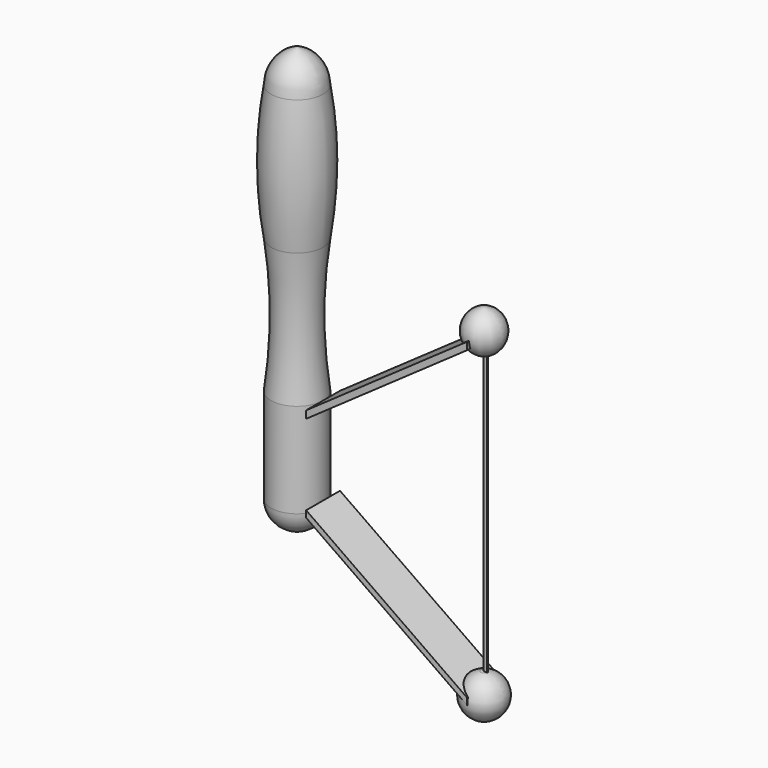
from build123d import *

# Parameters (mm, degrees)
F3_DEPTH = 0.1905
F4_DEPTH = 6.35


with BuildPart() as f1:
    # F0 (on Front) → F1 (revolve)
    with BuildSketch(Plane.XZ):
        Polygon((7.815314, -40.494292), (0, -40.494292), (0, -68.920434), (7.815314, -68.920434), (7.815314, -66.927714), (7.815314, -42.732979), align=None)
        with BuildLine():
            Line((7.815314, 0), (0, 0))
            Line((0, 0), (0, -40.494292))
            Line((0, -40.494292), (7.815314, -40.494292))
            ThreePointArc((7.815314, -40.494292), (6.404969, -20.247146), (7.815314, 0))
        make_face()
        with BuildLine():
            Line((0, 40.494292), (0, 0))
            Line((0, 0), (7.815314, 0))
            ThreePointArc((7.815314, 0), (9.456278, 20.247146), (7.815314, 40.494292))
            Line((7.815314, 40.494292), (0, 40.494292))
        make_face()
        with BuildLine():
            Line((0, 50.362954), (0, 40.494292))
            Line((0, 40.494292), (7.815314, 40.494292))
            ThreePointArc((7.815314, 40.494292), (5.596244, 46.76587), (0, 50.362954))
        make_face()
        with BuildLine():
            Line((7.815314, -68.920434), (0, -68.920434))
            Line((0, -68.920434), (0, -76.778069))
            ThreePointArc((0, -76.778069), (5.528816, -74.461679), (7.815314, -68.920434))
        make_face()
    revolve(axis=Axis((0, 0, 20.247146), (0, 0, 1)))


with BuildPart() as f2:
    # F0 (on Front) → F2 (revolve)
    with BuildSketch(Plane.XZ):
        with BuildLine():
            Line((56.163404, -100.781411), (56.163404, -102.774131))
            Line((56.163404, -102.774131), (56.163404, -108.946783))
            ThreePointArc((56.163404, -108.946783), (62.479059, -103.106412), (57.179164, -96.330828))
            ThreePointArc((57.179164, -96.330828), (56.672972, -96.268408), (56.163404, -96.246813))
            Line((56.163404, -96.246813), (56.163404, -100.781411))
        make_face()
        with BuildLine():
            Line((56.163404, 0), (56.163404, -6.640595))
            Line((56.163404, -6.640595), (56.163404, -8.879283))
            Line((56.163404, -8.879283), (56.163404, -12.640728))
            ThreePointArc((56.163404, -12.640728), (56.675003, -12.570025), (57.179164, -12.457981))
            ThreePointArc((57.179164, -12.457981), (61.879619, -5.80433), (56.163404, 0))
        make_face()
    revolve(axis=Axis((56.163404, 0, -102.596798), (0, 0, 1)))

    # F0 (on Front) → F3 (join, symmetric)
    with BuildSketch(Plane.XZ):
        with BuildLine():
            ThreePointArc((57.179164, -12.457981), (56.675003, -12.570025), (56.163404, -12.640728))
            Line((56.163404, -12.640728), (56.163404, -96.246813))
            ThreePointArc((56.163404, -96.246813), (56.672972, -96.268408), (57.179164, -96.330828))
            Line((57.179164, -96.330828), (57.179164, -12.457981))
        make_face()
    extrude(amount=F3_DEPTH, both=True)


with BuildPart() as f4:
    # F0 (on Front) → F4 (new body, symmetric)
    with BuildSketch(Plane.XZ):
        Polygon((56.163404, -6.640595), (7.815314, -40.494292), (7.815314, -42.732979), (56.163404, -8.879283), align=None)
        Polygon((7.815314, -66.927714), (7.815314, -68.920434), (56.163404, -102.774131), (56.163404, -100.781411), align=None)
    extrude(amount=F4_DEPTH, both=True)


solid = Compound([f1.part, f2.part, f4.part])
